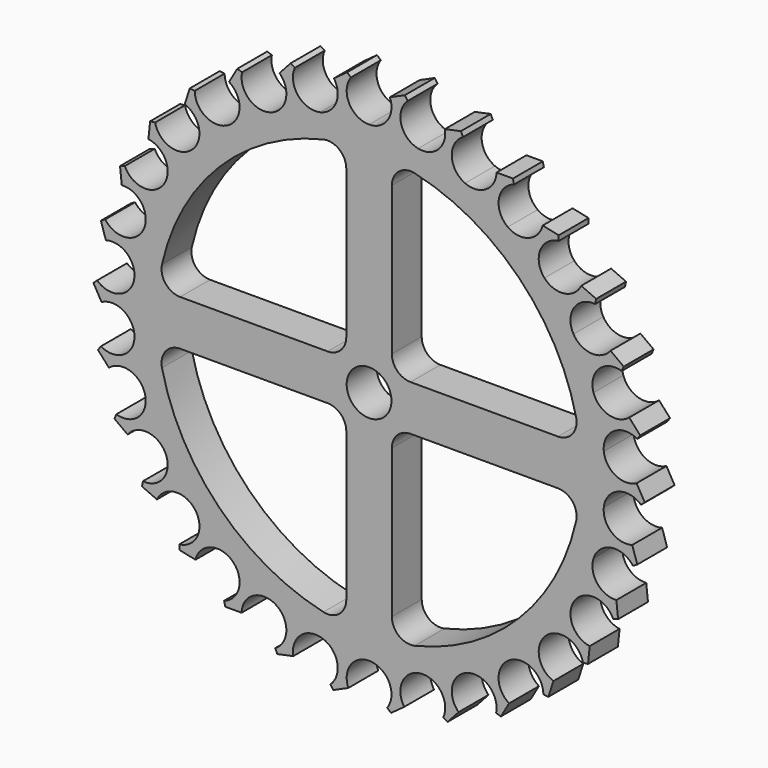
from build123d import *

# Parameters (mm, degrees)
F0_R     = 6
F1_DEPTH = 10
F3_DEPTH = 25


with BuildPart() as f1:
    # F0 (on Front) → F1 (new body)
    with BuildSketch(Plane.XZ):
        with BuildLine():
            ThreePointArc((13.140019, 61.818928), (8.593593, 66.128721), (10.363206, 72.138112))
            Line((10.363206, 72.138112), (9.573385, 73.225207))
            Line((9.573385, 73.225207), (5.565813, 71.440921))
            ThreePointArc((5.565813, 71.440921), (4.972199, 65.84184), (0, 63.2))
            ThreePointArc((0, 63.2), (-5.343132, 66.470359), (-4.861611, 72.716352))
            Line((-4.861611, 72.716352), (-5.860193, 73.615479))
            Line((-5.860193, 73.615479), (-9.409216, 71.036963))
            ThreePointArc((-9.409216, 71.036963), (-8.825744, 65.436816), (-13.140019, 61.818928))
            ThreePointArc((-13.140019, 61.818928), (-19.046336, 63.906922), (-19.873953, 70.11654))
            Line((-19.873953, 70.11654), (-21.037652, 70.788402))
            Line((-21.037652, 70.788402), (-23.973017, 67.528349))
            ThreePointArc((-23.973017, 67.528349), (-22.237959, 62.171889), (-25.705756, 57.736073))
            ThreePointArc((-25.705756, 57.736073), (-31.917124, 58.550447), (-34.017708, 64.452298))
            Line((-34.017708, 64.452298), (-35.295665, 64.867531))
            Line((-35.295665, 64.867531), (-37.489082, 61.068422))
            ThreePointArc((-37.489082, 61.068422), (-34.678269, 56.189753), (-37.148028, 51.129874))
            ThreePointArc((-37.148028, 51.129874), (-43.392981, 50.635036), (-46.674726, 55.971181))
            Line((-46.674726, 55.971181), (-48.011088, 56.111639))
            Line((-48.011088, 56.111639), (-49.366695, 51.939512))
            ThreePointArc((-49.366695, 51.939512), (-45.602972, 47.751854), (-46.966753, 42.289054))
            ThreePointArc((-46.966753, 42.289054), (-52.972356, 40.506631), (-57.291834, 45.043856))
            Line((-57.291834, 45.043856), (-58.628197, 44.903398))
            Line((-58.628197, 44.903398), (-59.086746, 40.540596))
            ThreePointArc((-59.086746, 40.540596), (-54.534607, 37.226971), (-54.732806, 31.6))
            ThreePointArc((-54.732806, 31.6), (-60.236585, 28.607891), (-65.405014, 32.147897))
            Line((-65.405014, 32.147897), (-66.682971, 31.732664))
            Line((-66.682971, 31.732664), (-66.224422, 27.369861))
            ThreePointArc((-66.224422, 27.369861), (-61.082817, 25.07509), (-60.106772, 19.529874))
            ThreePointArc((-60.106772, 19.529874), (-64.868186, 15.45885), (-70.659681, 17.846921))
            Line((-70.659681, 17.846921), (-71.82338, 17.17506))
            Line((-71.82338, 17.17506), (-70.467774, 13.002933))
            ThreePointArc((-70.467774, 13.002933), (-64.961415, 11.827307), (-62.853784, 6.606199))
            ThreePointArc((-62.853784, 6.606199), (-66.664736, 1.634183), (-72.826181, 2.76595))
            Line((-72.826181, 2.76595), (-73.824763, 1.866823))
            Line((-73.824763, 1.866823), (-71.631346, -1.932287))
            ThreePointArc((-71.631346, -1.932287), (-66.000888, -1.937386), (-62.853784, -6.606199))
            ThreePointArc((-62.853784, -6.606199), (-65.547718, -12.261906), (-71.809828, -12.435908))
            Line((-71.809828, -12.435908), (-72.599649, -13.523003))
            Line((-72.599649, -13.523003), (-69.664284, -16.783056))
            ThreePointArc((-69.664284, -16.783056), (-64.155805, -15.617405), (-60.106772, -19.529874))
            ThreePointArc((-60.106772, -19.529874), (-61.565949, -25.622091), (-67.65504, -27.094256))
            Line((-67.65504, -27.094256), (-68.201582, -28.321808))
            Line((-68.201582, -28.321808), (-64.652559, -30.900325))
            ThreePointArc((-64.652559, -30.900325), (-59.506806, -28.614869), (-54.732806, -31.6))
            ThreePointArc((-54.732806, -31.6), (-54.893453, -37.862467), (-60.543403, -40.568455))
            Line((-60.543403, -40.568455), (-60.822779, -41.882815))
            Line((-60.822779, -41.882815), (-56.815206, -43.667101))
            ThreePointArc((-56.815206, -43.667101), (-52.257073, -40.361726), (-46.966753, -42.289054))
            ThreePointArc((-46.966753, -42.289054), (-45.82185, -48.448072), (-50.785728, -52.269618))
            Line((-50.785728, -52.269618), (-50.785728, -53.613342))
            Line((-50.785728, -53.613342), (-46.494757, -54.525416))
            ThreePointArc((-46.494757, -54.525416), (-42.723456, -50.344582), (-37.148028, -51.129874))
            ThreePointArc((-37.148028, -51.129874), (-34.747612, -56.916264), (-38.808473, -61.686348))
            Line((-38.808473, -61.686348), (-38.529098, -63.000708))
            Line((-38.529098, -63.000708), (-34.142263, -63.000708))
            ThreePointArc((-34.142263, -63.000708), (-31.322619, -58.127138), (-25.705756, -57.736073))
            ThreePointArc((-25.705756, -57.736073), (-22.154737, -62.896942), (-25.135102, -68.407089))
            Line((-25.135102, -68.407089), (-24.58856, -69.634642))
            Line((-24.58856, -69.634642), (-20.297589, -68.722567))
            ThreePointArc((-20.297589, -68.722567), (-18.552833, -63.36926), (-13.140019, -61.818928))
            ThreePointArc((-13.140019, -61.818928), (-8.593593, -66.128721), (-10.363206, -72.138112))
            Line((-10.363206, -72.138112), (-9.573385, -73.225207))
            Line((-9.573385, -73.225207), (-5.565813, -71.440921))
            ThreePointArc((-5.565813, -71.440921), (-4.972199, -65.84184), (0, -63.2))
            ThreePointArc((0, -63.2), (5.343132, -66.470359), (4.861611, -72.716352))
            Line((4.861611, -72.716352), (5.860193, -73.615479))
            Line((5.860193, -73.615479), (9.409216, -71.036963))
            ThreePointArc((9.409216, -71.036963), (8.825744, -65.436816), (13.140019, -61.818928))
            ThreePointArc((13.140019, -61.818928), (19.046336, -63.906922), (19.873953, -70.11654))
            Line((19.873953, -70.11654), (21.037652, -70.788402))
            Line((21.037652, -70.788402), (23.973017, -67.528349))
            ThreePointArc((23.973017, -67.528349), (22.237959, -62.171889), (25.705756, -57.736073))
            ThreePointArc((25.705756, -57.736073), (31.917124, -58.550447), (34.017708, -64.452298))
            Line((34.017708, -64.452298), (35.295665, -64.867531))
            Line((35.295665, -64.867531), (37.489082, -61.068422))
            ThreePointArc((37.489082, -61.068422), (34.678269, -56.189753), (37.148028, -51.129874))
            ThreePointArc((37.148028, -51.129874), (43.392981, -50.635036), (46.674726, -55.971181))
            Line((46.674726, -55.971181), (48.011088, -56.111639))
            Line((48.011088, -56.111639), (49.366695, -51.939512))
            ThreePointArc((49.366695, -51.939512), (45.602972, -47.751854), (46.966753, -42.289054))
            ThreePointArc((46.966753, -42.289054), (52.972356, -40.506631), (57.291834, -45.043856))
            Line((57.291834, -45.043856), (58.628197, -44.903398))
            Line((58.628197, -44.903398), (59.086746, -40.540596))
            ThreePointArc((59.086746, -40.540596), (54.534607, -37.226971), (54.732806, -31.6))
            ThreePointArc((54.732806, -31.6), (60.236585, -28.607891), (65.405014, -32.147897))
            Line((65.405014, -32.147897), (66.682971, -31.732664))
            Line((66.682971, -31.732664), (66.224422, -27.369861))
            ThreePointArc((66.224422, -27.369861), (61.082817, -25.07509), (60.106772, -19.529874))
            ThreePointArc((60.106772, -19.529874), (64.868186, -15.45885), (70.659681, -17.846921))
            Line((70.659681, -17.846921), (71.82338, -17.17506))
            Line((71.82338, -17.17506), (70.467774, -13.002933))
            ThreePointArc((70.467774, -13.002933), (64.961415, -11.827307), (62.853784, -6.606199))
            ThreePointArc((62.853784, -6.606199), (66.664736, -1.634183), (72.826181, -2.76595))
            Line((72.826181, -2.76595), (73.824763, -1.866823))
            Line((73.824763, -1.866823), (71.631346, 1.932287))
            ThreePointArc((71.631346, 1.932287), (66.000888, 1.937386), (62.853784, 6.606199))
            ThreePointArc((62.853784, 6.606199), (65.547718, 12.261906), (71.809828, 12.435908))
            Line((71.809828, 12.435908), (72.599649, 13.523003))
            Line((72.599649, 13.523003), (69.664284, 16.783056))
            ThreePointArc((69.664284, 16.783056), (64.155805, 15.617405), (60.106772, 19.529874))
            ThreePointArc((60.106772, 19.529874), (61.565949, 25.622091), (67.65504, 27.094256))
            Line((67.65504, 27.094256), (68.201582, 28.321808))
            Line((68.201582, 28.321808), (64.652559, 30.900325))
            ThreePointArc((64.652559, 30.900325), (59.506806, 28.614869), (54.732806, 31.6))
            ThreePointArc((54.732806, 31.6), (54.893453, 37.862467), (60.543403, 40.568455))
            Line((60.543403, 40.568455), (60.822779, 41.882815))
            Line((60.822779, 41.882815), (56.815206, 43.667101))
            ThreePointArc((56.815206, 43.667101), (52.257073, 40.361726), (46.966753, 42.289054))
            ThreePointArc((46.966753, 42.289054), (45.82185, 48.448072), (50.785728, 52.269618))
            Line((50.785728, 52.269618), (50.785728, 53.613342))
            Line((50.785728, 53.613342), (46.494757, 54.525416))
            ThreePointArc((46.494757, 54.525416), (42.723456, 50.344582), (37.148028, 51.129874))
            ThreePointArc((37.148028, 51.129874), (34.747612, 56.916264), (38.808473, 61.686348))
            Line((38.808473, 61.686348), (38.529098, 63.000708))
            Line((38.529098, 63.000708), (34.142263, 63.000708))
            ThreePointArc((34.142263, 63.000708), (31.322619, 58.127138), (25.705756, 57.736073))
            ThreePointArc((25.705756, 57.736073), (22.154737, 62.896942), (25.135102, 68.407089))
            Line((25.135102, 68.407089), (24.58856, 69.634642))
            Line((24.58856, 69.634642), (20.297589, 68.722567))
            ThreePointArc((20.297589, 68.722567), (18.552833, 63.36926), (13.140019, 61.818928))
        make_face()
        Circle(F0_R, mode=Mode.SUBTRACT)
    extrude(amount=F1_DEPTH)

    # F2 (on Front) → F3 (cut)
    with BuildSketch(Plane.XZ):
        with BuildLine():
            ThreePointArc((-6.1, 50.828113), (-7.989705, 54.742965), (-12.230427, 55.69865))
            ThreePointArc((-12.230427, 55.69865), (-40.103742, 40.169891), (-55.457721, 12.199917))
            ThreePointArc((-55.457721, 12.199917), (-54.485302, 7.977468), (-50.580203, 6.1))
            Line((-50.580203, 6.1), (-11.1, 6.1))
            ThreePointArc((-11.1, 6.1), (-7.564466, 7.564466), (-6.1, 11.1))
            Line((-6.1, 11.1), (-6.1, 50.828113))
        make_face()
        with BuildLine():
            ThreePointArc((55.457721, 12.199917), (40.103742, 40.169891), (12.230427, 55.69865))
            ThreePointArc((12.230427, 55.69865), (7.989705, 54.742965), (6.1, 50.828113))
            Line((6.1, 50.828113), (6.1, 11.1))
            ThreePointArc((6.1, 11.1), (7.564466, 7.564466), (11.1, 6.1))
            Line((11.1, 6.1), (50.580203, 6.1))
            ThreePointArc((50.580203, 6.1), (54.485302, 7.977468), (55.457721, 12.199917))
        make_face()
        with BuildLine():
            ThreePointArc((-6.1, -11.1), (-7.564466, -7.564466), (-11.1, -6.1))
            Line((-11.1, -6.1), (-50.580203, -6.1))
            ThreePointArc((-50.580203, -6.1), (-54.485302, -7.977468), (-55.457721, -12.199917))
            ThreePointArc((-55.457721, -12.199917), (-40.103742, -40.169891), (-12.230427, -55.69865))
            ThreePointArc((-12.230427, -55.69865), (-7.989705, -54.742965), (-6.1, -50.828113))
            Line((-6.1, -50.828113), (-6.1, -11.1))
        make_face()
        with BuildLine():
            Line((50.580203, -6.1), (11.1, -6.1))
            ThreePointArc((11.1, -6.1), (7.564466, -7.564466), (6.1, -11.1))
            Line((6.1, -11.1), (6.1, -50.828113))
            ThreePointArc((6.1, -50.828113), (7.989705, -54.742965), (12.230427, -55.69865))
            ThreePointArc((12.230427, -55.69865), (40.103742, -40.169891), (55.457721, -12.199917))
            ThreePointArc((55.457721, -12.199917), (54.485302, -7.977468), (50.580203, -6.1))
        make_face()
    extrude(amount=F3_DEPTH, mode=Mode.SUBTRACT)


solid = f1.part
